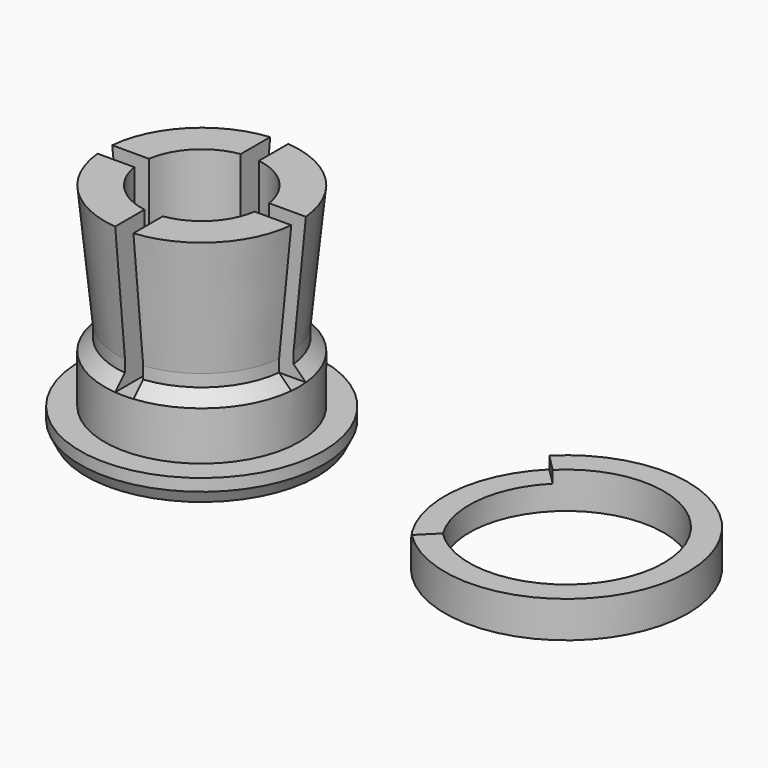
from build123d import *

# Parameters (mm, degrees)
SKETCH_R        = 10
PAD_DEPTH       = 3
SKETCH002_R     = 8
POCKET_DEPTH    = 5
POCKET001_DEPTH = 1
POCKET002_DEPTH = 12


with BuildPart() as ring:
    # Sketch → Pad (new body)
    with BuildSketch(Plane.XY):
        Circle(SKETCH_R)
    extrude(amount=PAD_DEPTH)

    # Sketch002 → Pocket (cut)
    with BuildSketch(Plane.XY.offset(3)):
        Circle(SKETCH002_R)
    extrude(amount=-POCKET_DEPTH, mode=Mode.SUBTRACT)

    # Sketch003 (on Face3 of Pocket) → Pocket001 (cut)
    with BuildSketch(Plane.XY.offset(3)):
        with BuildLine():
            ThreePointArc((-7.07107, 7.071066), (-10, -2e-06), (-7.071068, -7.071068))
            Line((0, 0), (-7.071068, -7.071068))
            Line((-7.07107, 7.071066), (0, 0))
        make_face()
    extrude(amount=-POCKET001_DEPTH, mode=Mode.SUBTRACT)


with BuildPart() as ring_1:
    # Body placement: moved
    add(ring.part.moved(Location((30, 0, 0))))


with BuildPart() as base:
    # Sketch004 → Revolution (revolve)
    with BuildSketch(Plane.XZ):
        Polygon((5, 0), (5, 18), (8, 18), (7, 8), (7, 7), (8, 6), (8, 2), (10, 2), (10, 1), (9.5, 0), align=None)
    revolve(axis=Axis((0, 0, 0), (0, 0, 1)))

    # Sketch005 (on Face4 of Revolution) → Pocket002 (cut)
    with BuildSketch(Plane(origin=(0, 0, 18), x_dir=(-1, 0, 0), z_dir=(0, 0, 1))):
        Polygon((-9, 0.75), (-9, -0.75), (-0.75, -0.75), (-0.75, -9), (0.75, -9), (0.75, -0.75), (9, -0.75), (9, 0.75), (0.75, 0.75), (0.75, 9), (-0.75, 9), (-0.75, 0.75), align=None)
    extrude(amount=-POCKET002_DEPTH, mode=Mode.SUBTRACT)


solid = Compound([ring_1.part, base.part])
